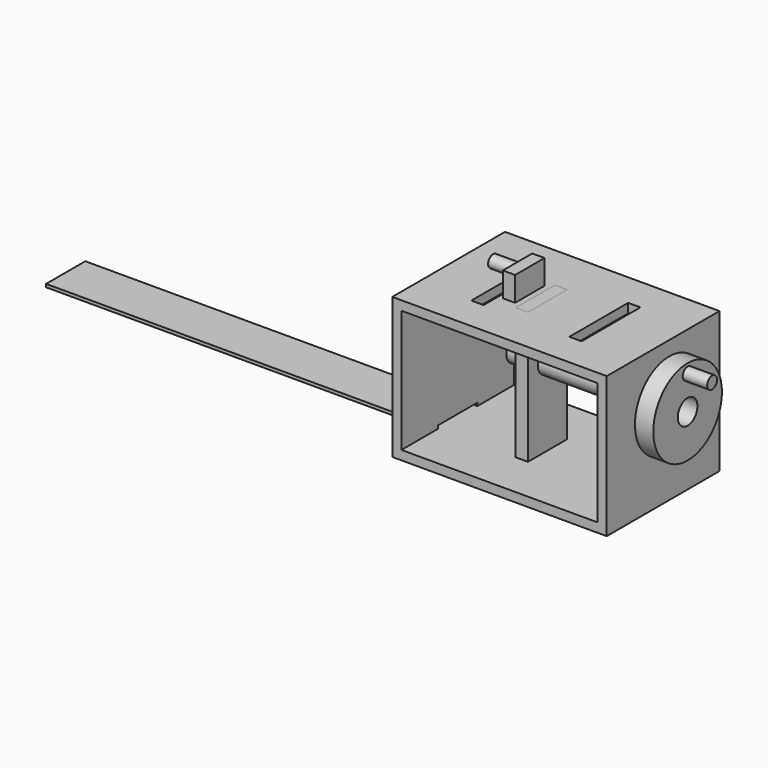
from build123d import *

# Parameters (mm, degrees)
F0_W      = 222.25
F0_H      = 146.05
F0_W_2    = 203.2
F0_H_2    = 127
F1_DEPTH  = 73.025
F2_W      = 50.8
F2_H      = 6.35
F3_DEPTH  = 25.4
F4_R      = 12.7
F5_DEPTH  = 9.525
F6_R      = 12.7
F7_DEPTH  = 152.4
F8_R      = 12.7
F9_DEPTH  = 6.35
F10_R     = 44.45
F10_R_2   = 12.7
F10_R_3   = 6.35
F11_DEPTH = 19.05
F12_R     = 6.35
F13_DEPTH = 25.4
F14_W     = 12.7
F14_H     = 76.2
F15_DEPTH = 19.05
F16_W     = 12.7
F16_H     = 38.1
F17_DEPTH = 25.4
F18_R     = 6.35
F19_DEPTH = 25.4
F2_H_2    = 3.175
F20_DEPTH = 406.4
F21_W     = 12.7
F21_H     = 50.8
F22_DEPTH = 146.05


with BuildPart() as f1:
    # F0 (on Front) → F1 (new body, symmetric)
    with BuildSketch(Plane.XZ):
        Rectangle(F0_W, F0_H)
        Rectangle(F0_W_2, F0_H_2, mode=Mode.SUBTRACT)
    extrude(amount=F1_DEPTH, both=True)

    # F2 (on face) → F3 (cut)
    with BuildSketch(Plane.YZ.offset(-101.6)):
        with Locations((0, -63.5)):
            Rectangle(F2_W, F2_H)
    extrude(amount=-F3_DEPTH, mode=Mode.SUBTRACT)

    # F4 (on face) → F5 (cut, through all)
    with BuildSketch(Plane.YZ.offset(111.125)):
        with Locations((0, 19.05)):
            Circle(F4_R)
    extrude(amount=-F5_DEPTH, mode=Mode.SUBTRACT)

    # F14 (on face) → F15 (cut)
    with BuildSketch(Plane.XY.offset(73.025)):
        with Locations((-50.8, 0)):
            Rectangle(F14_W, F14_H)
        with Locations((50.8, 0)):
            Rectangle(F14_W, F14_H)
    extrude(amount=-F15_DEPTH, mode=Mode.SUBTRACT)

    # F16 (on face) → F17 (join)
    with BuildSketch(Plane.XY.offset(73.025)):
        with Locations((-33.365164, 0)):
            Rectangle(F16_W, F16_H)
    extrude(amount=F17_DEPTH)

    # F18 (on face) → F19 (join)
    with BuildSketch(Plane(origin=(-39.715164, 0, 0), x_dir=(0, -1, 0), z_dir=(-1, 0, 0))):
        with Locations((0, 90.973456)):
            Circle(F18_R)
    extrude(amount=F19_DEPTH)

    # F2 (on face) → F20 (join)
    with BuildSketch(Plane.YZ.offset(-101.6)):
        with Locations((0, -65.0875)):
            Rectangle(F2_W, F2_H_2)
    extrude(amount=-F20_DEPTH)


with BuildPart() as f7:
    # F6 (on face) → F7 (new body)
    with BuildSketch(Plane.YZ.offset(111.125)):
        with Locations((0, 19.05)):
            Circle(F6_R)
    extrude(amount=-F7_DEPTH)


with BuildPart() as f9:
    # F8 (on face) → F9 (new body)
    with BuildSketch(Plane.YZ.offset(111.125)):
        with Locations((0, 19.05)):
            Circle(F8_R)
    extrude(amount=F9_DEPTH)

    # F10 (on face) → F11 (join)
    with BuildSketch(Plane.YZ.offset(117.475)):
        with Locations((0, 19.05)):
            Circle(F10_R)
        with Locations((0, 19.05)):
            Circle(F10_R_2, mode=Mode.SUBTRACT)
        with Locations((0, 53.975)):
            Circle(F10_R_3, mode=Mode.SUBTRACT)
    extrude(amount=F11_DEPTH)

    # F12 (on face) → F13 (join)
    with BuildSketch(Plane.YZ.offset(136.525)):
        with Locations((0, 53.975)):
            Circle(F12_R)
    extrude(amount=F13_DEPTH)


with BuildPart() as f22:
    # F21 (on face) → F22 (new body)
    with BuildSketch(Plane.XY.offset(73.025)):
        with Locations((-14.961285, 0)):
            Rectangle(F21_W, F21_H)
    extrude(amount=-F22_DEPTH)


solid = Compound([f1.part, f7.part, f9.part, f22.part])
